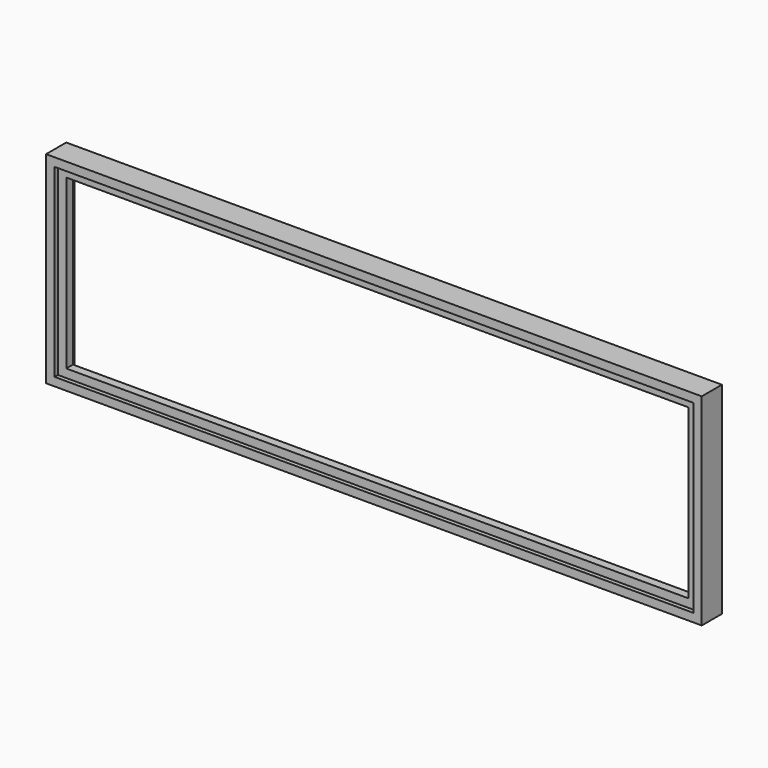
from build123d import *

# Parameters (mm, degrees)
F0_W      = 2971.8
F0_H      = 914.4
F1_DEPTH  = 57.15
F2_W      = 2895.6
F2_H      = 838.2
F3_DEPTH  = 114.301
F4_W      = 2895.6
F4_H      = 838.2
F5_DEPTH  = 38.1
F6_W      = 2819.4
F6_H      = 762
F7_DEPTH  = 95.251
F8_W      = 1466.85
F8_H      = 838.2
F9_DEPTH  = 38.1
F10_W     = 38.1
F10_H     = 762
F11_DEPTH = 57.151


with BuildPart() as f1:
    # F0 (on Front) → F1 (new body, symmetric)
    with BuildSketch(Plane.XZ):
        Rectangle(F0_W, F0_H)
    extrude(amount=F1_DEPTH, both=True)

    # F2 (on face) → F3 (cut, through all)
    with BuildSketch(Plane.XZ.offset(57.15)):
        Rectangle(F2_W, F2_H)
    extrude(amount=-F3_DEPTH, mode=Mode.SUBTRACT)


with BuildPart() as f5:
    # F4 (on Front) → F5 (new body)
    with BuildSketch(Plane.XZ):
        Rectangle(F4_W, F4_H)
    extrude(amount=F5_DEPTH)

    # F6 (on face) → F7 (cut, through all)
    with BuildSketch(Plane.XZ.offset(38.1)):
        Rectangle(F6_W, F6_H)
    extrude(amount=-F7_DEPTH, mode=Mode.SUBTRACT)


with BuildPart() as f9:
    # F8 (on Front) → F9 (new body)
    with BuildSketch(Plane.XZ):
        with Locations((714.375, 0)):
            Rectangle(F8_W, F8_H)
    extrude(amount=-F9_DEPTH)

    # F10 (on face) → F11 (cut, through all)
    with BuildSketch(Plane.XZ):
        with Locations((1428.75, 0)):
            Rectangle(F10_W, F10_H)
    extrude(amount=-F11_DEPTH, mode=Mode.SUBTRACT)


solid = Compound([f1.part, f5.part])
